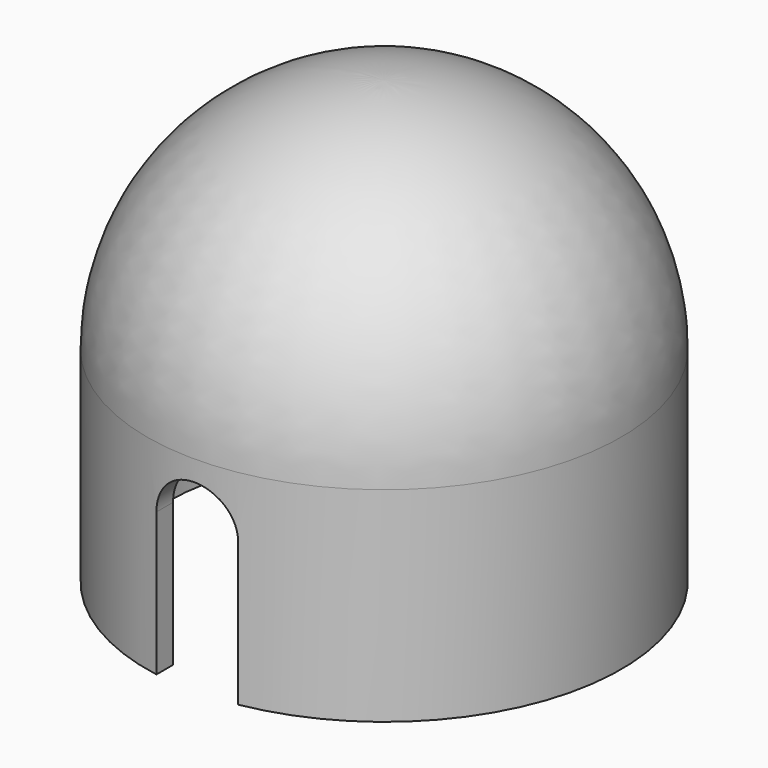
from build123d import *

# Parameters (mm, degrees)
F5_DEPTH = 12


with BuildPart() as f2:
    # F0 (on Front) → F2 (revolve)
    with BuildSketch(Plane.XZ):
        with BuildLine():
            Line((-23.2, 0), (-21.2, 0))
            Line((-21.2, 0), (-21.2, 20))
            ThreePointArc((-21.2, 20), (-14.990664, 34.990664), (0, 41.2))
            Line((0, 41.2), (0, 43.2))
            ThreePointArc((0, 43.2), (-16.404877, 36.404877), (-23.2, 20))
            Line((-23.2, 20), (-23.2, 0))
        make_face()
    revolve(axis=Axis((0, 0, 11.922725), (0, 0, -1)))

    # F4 (on offset) → F5 (cut)
    with BuildSketch(Plane.XZ.offset(25)):
        with BuildLine():
            Line((4, 0), (4, 14))
            ThreePointArc((4, 14), (0, 18), (-4, 14))
            Line((-4, 14), (-4, 0))
            Line((-4, 0), (4, 0))
        make_face()
    extrude(amount=-F5_DEPTH, mode=Mode.SUBTRACT)


solid = f2.part
